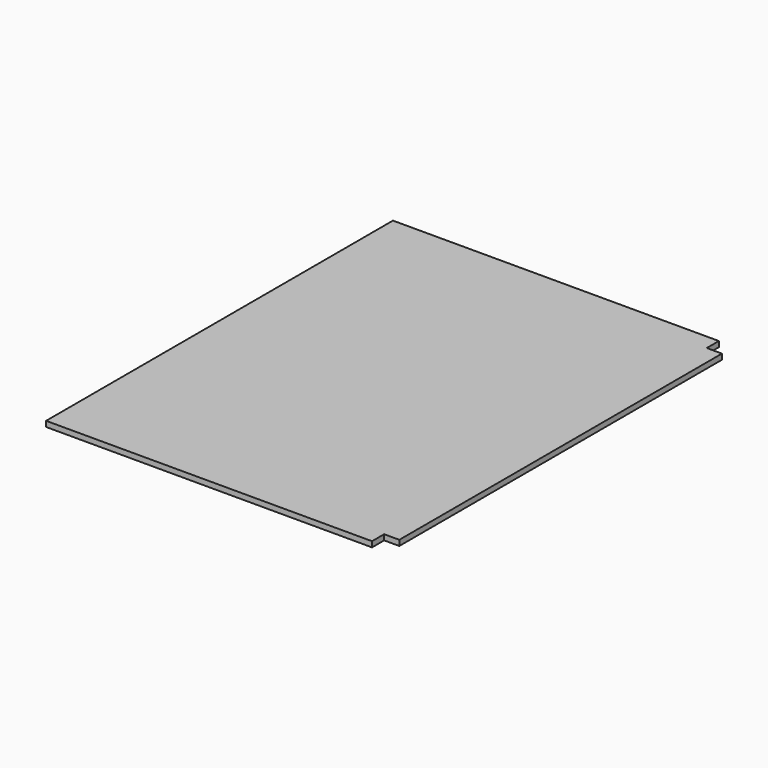
from build123d import *

# Parameters (mm, degrees)
F0_W     = 1125
F0_H     = 18
F1_DEPTH = 1430
F2_W     = 50
F2_H     = 50
F3_DEPTH = 18.001


with BuildPart() as f1:
    # F0 (on Front) → F1 (new body)
    with BuildSketch(Plane.XZ):
        Rectangle(F0_W, F0_H)
    extrude(amount=F1_DEPTH)

    # F2 (on face) → F3 (cut, through all)
    with BuildSketch(Plane.XY.offset(9)):
        with Locations((537.5, -1405)):
            Rectangle(F2_W, F2_H)
        with Locations((537.5, -25)):
            Rectangle(F2_W, F2_H)
    extrude(amount=-F3_DEPTH, mode=Mode.SUBTRACT)


solid = f1.part
